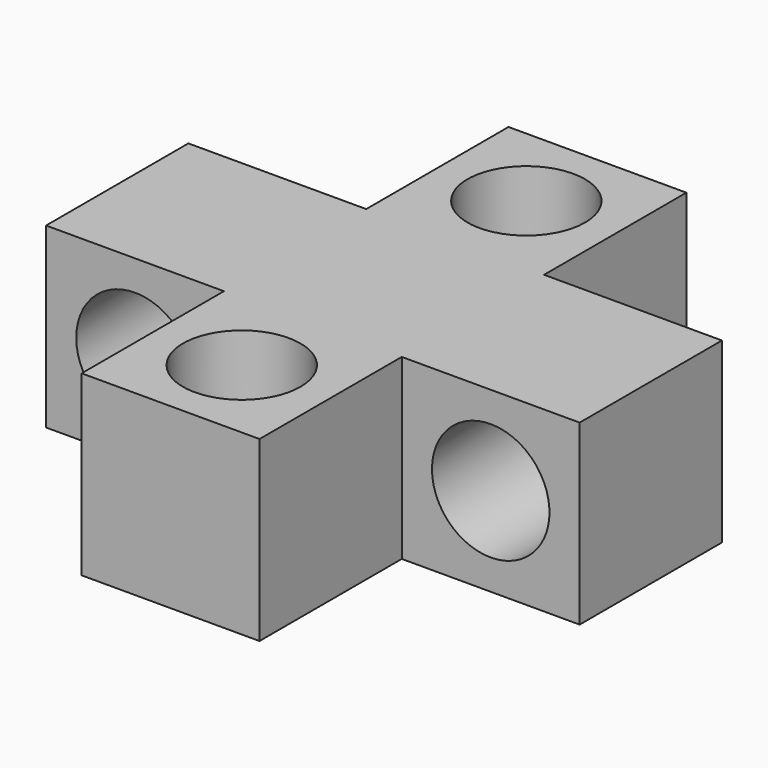
from build123d import *

# Parameters (mm, degrees)
F0_W     = 15
F0_H     = 15
F1_DEPTH = 15
F2_R     = 4.955
F3_DEPTH = 15.001
F4_R     = 4.955
F5_DEPTH = 30.001


with BuildPart() as f1:
    # F0 (on Top) → F1 (new body)
    with BuildSketch(Plane.XY):
        with Locations((-15, 0)):
            Rectangle(F0_W, F0_H)
        Rectangle(F0_W, F0_H)
        with Locations((15, 0)):
            Rectangle(F0_W, F0_H)
        with Locations((0, 15)):
            Rectangle(F0_W, F0_H)
        with Locations((0, -15)):
            Rectangle(F0_W, F0_H)
    extrude(amount=F1_DEPTH)

    # F2 (on face) → F3 (cut, through all)
    with BuildSketch(Plane.XY.offset(15)):
        with Locations((0, -15)):
            Circle(F2_R)
        with Locations((0, 15)):
            Circle(F2_R)
    extrude(amount=-F3_DEPTH, mode=Mode.SUBTRACT)

    # F4 (on face) → F5 (cut, through all)
    with BuildSketch(Plane(origin=(0, 7.5, 0), x_dir=(-1, 0, 0), z_dir=(0, 1, 0))):
        with Locations((15, 7.5)):
            Circle(F4_R)
        with Locations((-15, 7.5)):
            Circle(F4_R)
    extrude(amount=-F5_DEPTH, mode=Mode.SUBTRACT)


solid = f1.part
